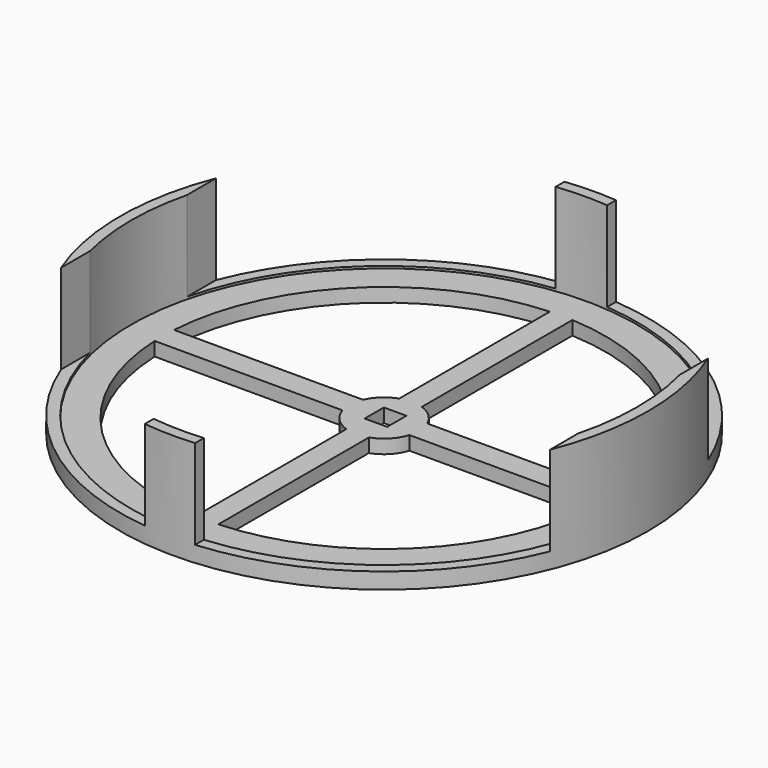
from build123d import *

# Parameters (mm, degrees)
F0_R     = 73.025
F1_DEPTH = 3.81
F2_R     = 73.025
F2_R_2   = 69.977
F3_DEPTH = 25.4
F4_R     = 61.2936559159
F5_DEPTH = 25.4
F7_DEPTH = 3.81
F8_W     = 59.7810531035
F8_H     = 29.3873213232
F8_W_2   = 61.7938893847
F9_DEPTH = 127


with BuildPart() as f1:
    # F0 (on Top) → F1 (new body)
    with BuildSketch(Plane.XY):
        Circle(F0_R)
    extrude(amount=F1_DEPTH)

    # F2 (on face) → F3 (join)
    with BuildSketch(Plane.XY.offset(3.81)):
        Circle(F2_R)
        Circle(F2_R_2, mode=Mode.SUBTRACT)
    extrude(amount=F3_DEPTH)

    # F4 (on face) → F5 (cut)
    with BuildSketch(Plane.XY.offset(3.81)):
        Circle(F4_R)
    extrude(amount=-F5_DEPTH, mode=Mode.SUBTRACT)

    # F6 (on face) → F7 (join, through all)
    with BuildSketch(Plane.XY.offset(3.81)):
        with BuildLine():
            Line((3.1198861543, 65.2156993747), (-3.1198873185, 65.2156993747))
            Line((-3.1198873185, 65.2156993747), (-3.1198873185, 9.1467575412))
            ThreePointArc((-3.1198873185, 9.1467575412), (-6.15e-07, 9.6642056268), (3.1198861543, 9.1467579383))
            Line((3.1198861543, 9.1467579383), (3.1198861543, 65.2156993747))
        make_face()
        with BuildLine():
            ThreePointArc((3.1198861543, 9.1467579383), (-6.15e-07, 9.6642056268), (-3.1198873185, 9.1467575412))
            Line((-3.1198873185, 9.1467575412), (-3.1198873185, 3.8243774325))
            Line((-3.1198873185, 3.8243774325), (3.1198861543, 3.8243774325))
            Line((3.1198861543, 3.8243774325), (3.1198861543, 9.1467579383))
        make_face()
        with BuildLine():
            Line((-3.1198873185, 3.8243774325), (-3.1198873185, 9.1467575412))
            ThreePointArc((-3.1198873185, 9.1467575412), (-6.5614847143, 7.0953357033), (-8.8753032428, 3.8243774325))
            Line((-8.8753032428, 3.8243774325), (-3.1198873185, 3.8243774325))
        make_face()
        with BuildLine():
            ThreePointArc((8.8753032428, 3.8243774325), (6.5614842628, 7.0953361208), (3.1198861543, 9.1467579383))
            Line((3.1198861543, 9.1467579383), (3.1198861543, 3.8243774325))
            Line((3.1198861543, 3.8243774325), (8.8753032428, 3.8243774325))
        make_face()
        with BuildLine():
            Line((-3.1198873185, -2.8179625515), (-3.1198873185, 3.8243774325))
            Line((-3.1198873185, 3.8243774325), (-8.8753032428, 3.8243774325))
            ThreePointArc((-8.8753032428, 3.8243774325), (-9.6493328393, 0.5359534999), (-9.2442391497, -2.8179625515))
            Line((-9.2442391497, -2.8179625515), (-3.1198873185, -2.8179625515))
        make_face()
        with BuildLine():
            ThreePointArc((-9.2442391497, -2.8179625515), (-9.6493328393, 0.5359534999), (-8.8753032428, 3.8243774325))
            Line((-8.8753032428, 3.8243774325), (-63.3035078645, 3.8243774325))
            Line((-63.3035078645, 3.8243774325), (-63.3035078645, -2.8179625515))
            Line((-63.3035078645, -2.8179625515), (-9.2442391497, -2.8179625515))
        make_face()
        with BuildLine():
            Line((8.8753032428, 3.8243774325), (3.1198861543, 3.8243774325))
            Line((3.1198861543, 3.8243774325), (3.1198861543, -2.8179625515))
            Line((3.1198861543, -2.8179625515), (9.2442391497, -2.8179625515))
            ThreePointArc((9.2442391497, -2.8179625515), (9.5586374134, -1.4245424514), (9.6642056268, 0))
            ThreePointArc((9.6642056268, 0), (9.4649254074, 1.952449085), (8.8753032428, 3.8243774325))
        make_face()
        with BuildLine():
            Line((64.1086399555, 3.8243774325), (8.8753032428, 3.8243774325))
            ThreePointArc((8.8753032428, 3.8243774325), (9.4649254074, 1.952449085), (9.6642056268, 0))
            ThreePointArc((9.6642056268, 0), (9.5586374134, -1.4245424514), (9.2442391497, -2.8179625515))
            Line((9.2442391497, -2.8179625515), (64.1086399555, -2.8179625515))
            Line((64.1086399555, -2.8179625515), (64.1086399555, 3.8243774325))
        make_face()
        with BuildLine():
            Line((3.1198861543, -2.8179625515), (-3.1198873185, -2.8179625515))
            Line((-3.1198873185, -2.8179625515), (-3.1198873185, -9.1467575412))
            ThreePointArc((-3.1198873185, -9.1467575412), (-6.15e-07, -9.6642056268), (3.1198861543, -9.1467579383))
            Line((3.1198861543, -9.1467579383), (3.1198861543, -2.8179625515))
        make_face()
        with BuildLine():
            Line((-3.1198873185, -9.1467575412), (-3.1198873185, -2.8179625515))
            Line((-3.1198873185, -2.8179625515), (-9.2442391497, -2.8179625515))
            ThreePointArc((-9.2442391497, -2.8179625515), (-6.9448770569, -6.7205322008), (-3.1198873185, -9.1467575412))
        make_face()
        with BuildLine():
            Line((9.2442391497, -2.8179625515), (3.1198861543, -2.8179625515))
            Line((3.1198861543, -2.8179625515), (3.1198861543, -9.1467579383))
            ThreePointArc((3.1198861543, -9.1467579383), (6.9448766292, -6.7205326428), (9.2442391497, -2.8179625515))
        make_face()
        with BuildLine():
            ThreePointArc((3.1198861543, -9.1467579383), (-6.15e-07, -9.6642056268), (-3.1198873185, -9.1467575412))
            Line((-3.1198873185, -9.1467575412), (-3.1198873185, -64.2092823982))
            Line((-3.1198873185, -64.2092823982), (3.1198861543, -64.2092823982))
            Line((3.1198861543, -64.2092823982), (3.1198861543, -9.1467579383))
        make_face()
    extrude(amount=-F7_DEPTH)

    # F8 (on Front) → F9 (cut, symmetric)
    with BuildSketch(Plane.XZ):
        with Locations((-38.0424889736, 19.1218871623)):
            Rectangle(F8_W, F8_H)
        with Locations((36.8347933982, 19.1218871623)):
            Rectangle(F8_W_2, F8_H)
    extrude(amount=F9_DEPTH, both=True, mode=Mode.SUBTRACT)


solid = f1.part
